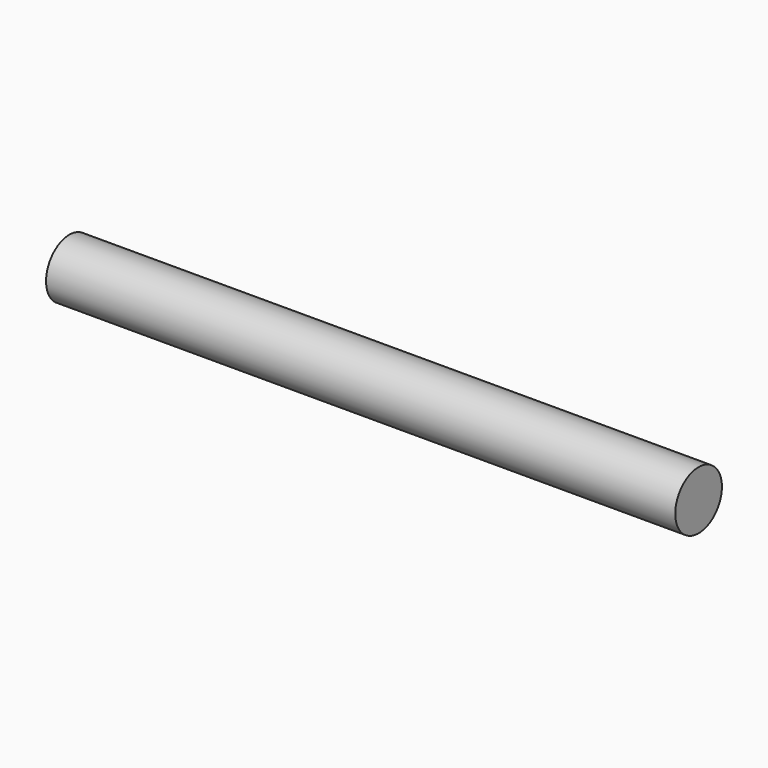
from build123d import *

# Parameters (mm, degrees)
F0_R          = 10
F1_DEPTH      = 107.682
F1_DEPTH_BACK = 108


with BuildPart() as f1:
    # F0 (on Right) → F1 (new body, two sides)
    with BuildSketch(Plane.YZ) as f1_sk:
        with Locations((0, 273)):
            Circle(F0_R)
    extrude(amount=F1_DEPTH)
    extrude(f1_sk.sketch, amount=-F1_DEPTH_BACK)


solid = f1.part
